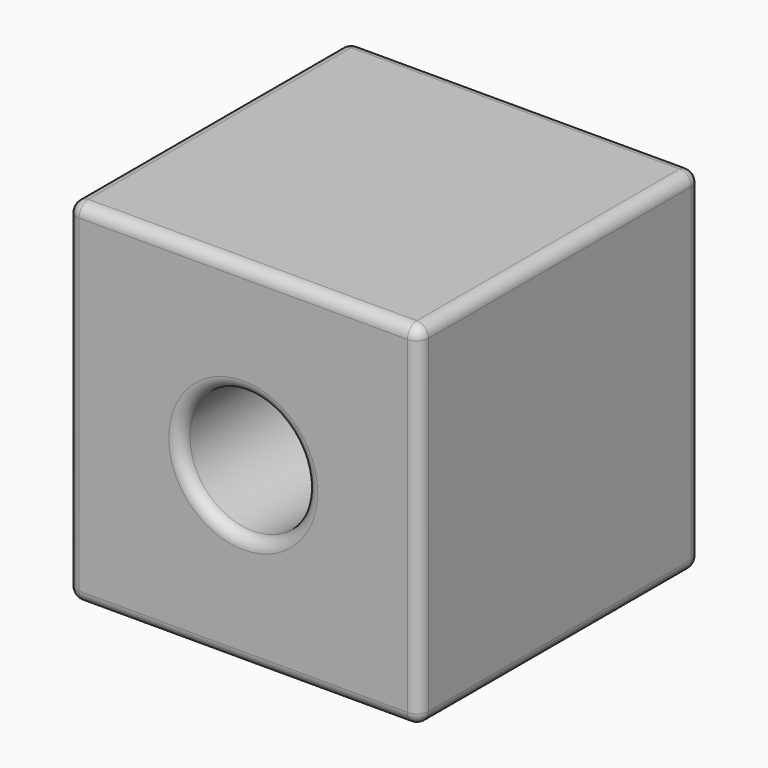
from build123d import *

# Parameters (mm, degrees)
F0_W     = 30
F0_H     = 30
F0_R     = 5.347816
F1_DEPTH = 30
F2_R     = 1


with BuildPart() as f1:
    # F0 (on Front) → F1 (new body)
    with BuildSketch(Plane.XZ):
        with Locations((-15, 15)):
            Rectangle(F0_W, F0_H)
        with Locations((-15, 15)):
            Circle(F0_R, mode=Mode.SUBTRACT)
    extrude(amount=F1_DEPTH)

    # F2
    f2_edges = [f1.edges().sort_by_distance(p)[0] for p in [
        (-20.347816, -30, 15),
        (-15, -30, 30),
        (-30, -30, 15),
        (-15, -30, 0),
        (0, -30, 15),
        (-15, 0, 30),
        (-30, 0, 15),
        (-15, 0, 0),
        (0, 0, 15),
        (-20.347816, 0, 15),
        (-30, -15, 0),
        (0, -15, 0),
        (-30, -15, 30),
        (0, -15, 30),
        (-9.652184, -15, 15),
    ]]
    fillet(f2_edges, radius=F2_R)


solid = f1.part
